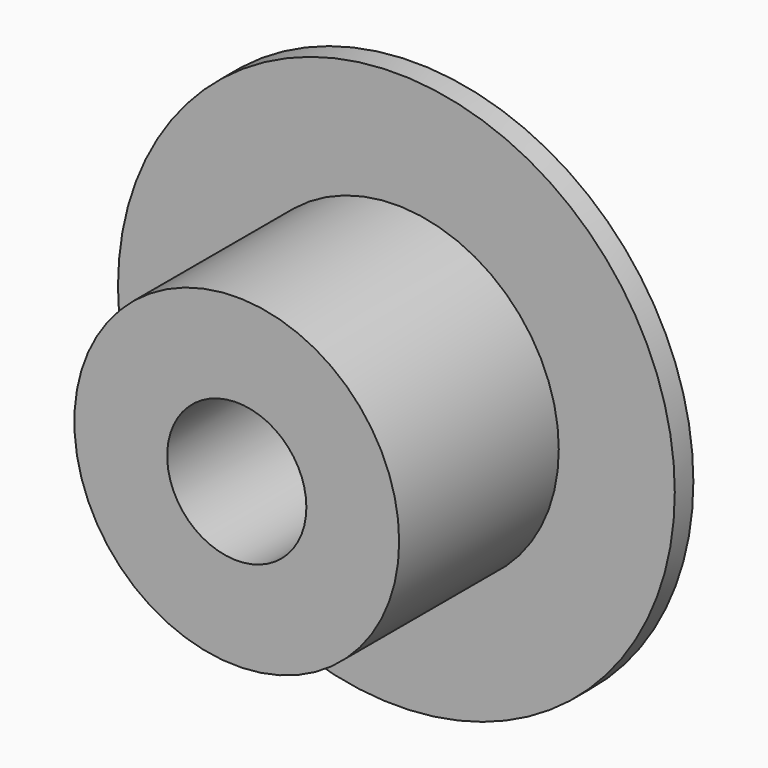
from build123d import *

# Parameters (mm, degrees)
F0_R     = 19.05
F0_R_2   = 4.7625
F1_DEPTH = 1.5875
F2_R     = 11.1125
F2_R_2   = 4.7625
F3_DEPTH = 15.24


with BuildPart() as f1:
    # F0 (on Front) → F1 (new body)
    with BuildSketch(Plane.XZ):
        with Locations((-52.2079691291, 27.464909479)):
            Circle(F0_R)
        with Locations((-52.2079691291, 27.464909479)):
            Circle(F0_R_2, mode=Mode.SUBTRACT)
    extrude(amount=F1_DEPTH)

    # F2 (on Front) → F3 (join)
    with BuildSketch(Plane.XZ):
        with Locations((-52.2079691291, 27.464909479)):
            Circle(F2_R)
        with Locations((-52.2079691291, 27.464909479)):
            Circle(F2_R_2, mode=Mode.SUBTRACT)
    extrude(amount=F3_DEPTH)


solid = f1.part
